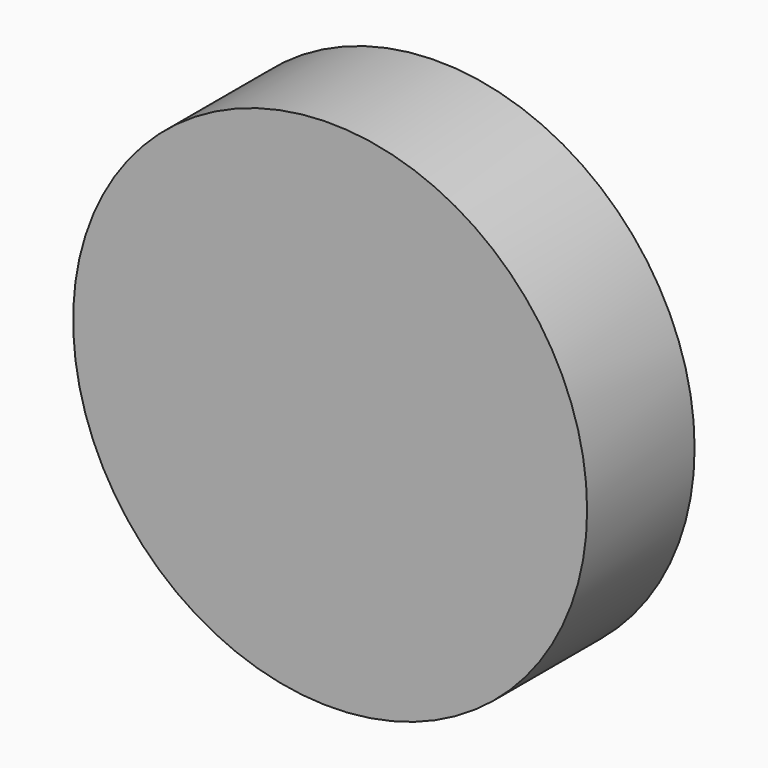
from build123d import *

# Parameters (mm, degrees)
F0_R     = 47.814285
F1_DEPTH = 25
F2_R     = 10.189496
F2_R_2   = 9.101141
F3_DEPTH = 72.9


with BuildPart() as f1:
    # F0 (on Front) → F1 (new body)
    with BuildSketch(Plane.XZ):
        Circle(F0_R)
    extrude(amount=F1_DEPTH)

    # F2 (on Front) → F3 (cut)
    with BuildSketch(Plane.XZ):
        with Locations((0, 22.434959)):
            Circle(F2_R)
        with Locations((0, 22.434959)):
            Circle(F2_R_2, mode=Mode.SUBTRACT)
    extrude(amount=-F3_DEPTH, mode=Mode.SUBTRACT)


solid = f1.part
